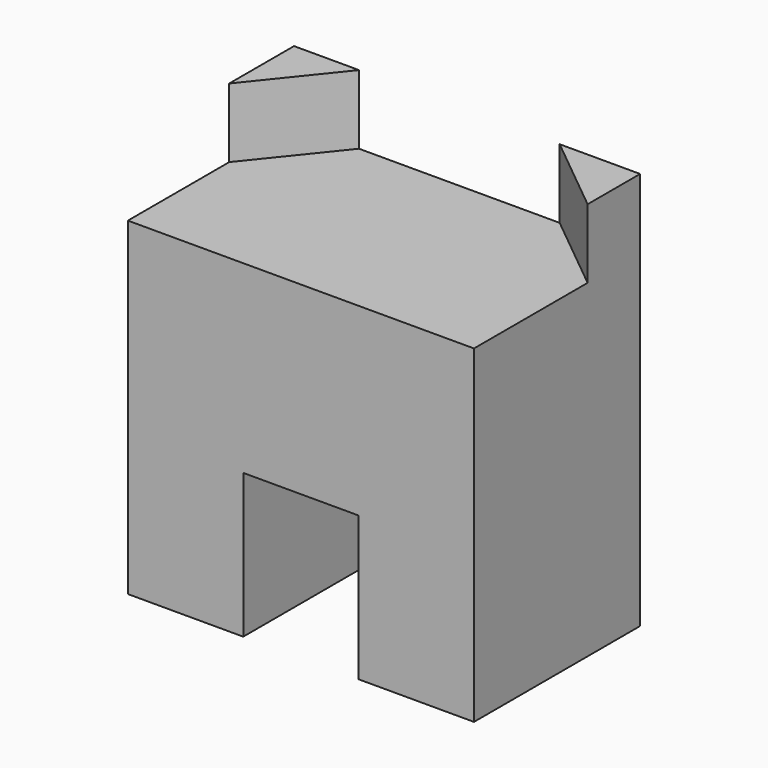
from build123d import *

# Parameters (mm, degrees)
F0_W     = 600
F0_H     = 360
F1_DEPTH = 570
F3_DEPTH = 120
F5_DEPTH = 360.001


with BuildPart() as f1:
    # F0 (on Top) → F1 (new body)
    with BuildSketch(Plane.XY):
        Rectangle(F0_W, F0_H)
    extrude(amount=F1_DEPTH)

    # F2 (on face) → F3 (join)
    with BuildSketch(Plane.XY.offset(570)):
        Polygon((-300, 39.58638), (-187.376666, 180), (-300, 180), align=None)
        Polygon((300, 180), (160.513226, 180), (300, 66.23076), align=None)
    extrude(amount=F3_DEPTH)

    # F4 (on face) → F5 (cut, through all)
    with BuildSketch(Plane.XZ.offset(180)):
        Polygon((0, 0), (100, 0), (100, 250), (-100, 250), (-100, 0), align=None)
    extrude(amount=-F5_DEPTH, mode=Mode.SUBTRACT)


solid = f1.part
